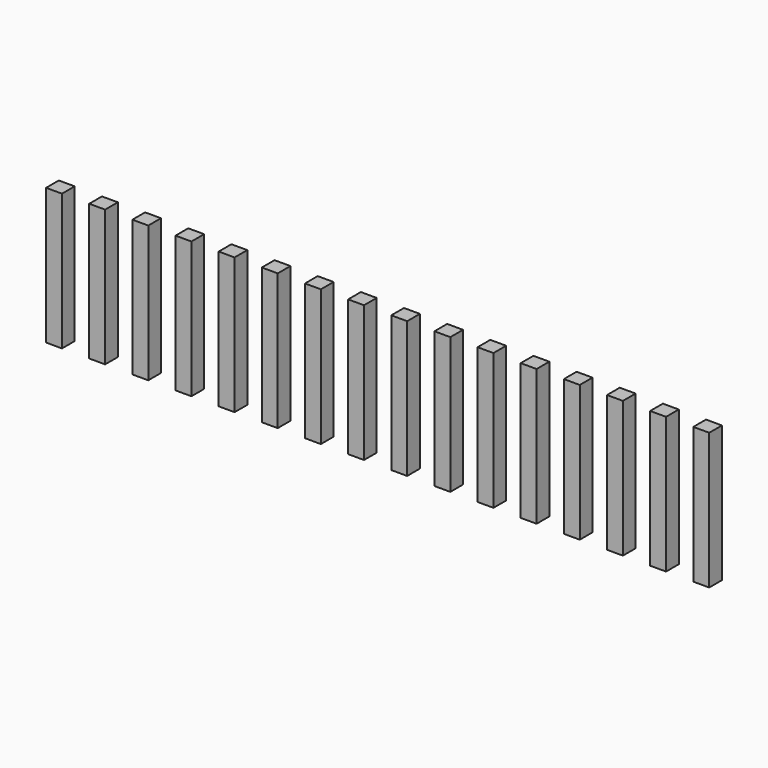
from build123d import *

# Parameters (mm, degrees)
F0_W     = 0.7
F0_H     = 0.7
F1_DEPTH = 6


with BuildPart() as f1:
    # F0 (on Top) → F1 (new body)
    with BuildSketch(Plane.XY):
        with Locations((0.35, -0.35)):
            Rectangle(F0_W, F0_H)
        with Locations((2.25, -0.35)):
            Rectangle(F0_W, F0_H)
        with Locations((4.15, -0.35)):
            Rectangle(F0_W, F0_H)
        with Locations((6.05, -0.35)):
            Rectangle(F0_W, F0_H)
        with Locations((7.95, -0.35)):
            Rectangle(F0_W, F0_H)
        with Locations((9.85, -0.35)):
            Rectangle(F0_W, F0_H)
        with Locations((11.75, -0.35)):
            Rectangle(F0_W, F0_H)
        with Locations((13.65, -0.35)):
            Rectangle(F0_W, F0_H)
        with Locations((15.55, -0.35)):
            Rectangle(F0_W, F0_H)
        with Locations((17.45, -0.35)):
            Rectangle(F0_W, F0_H)
        with Locations((19.35, -0.35)):
            Rectangle(F0_W, F0_H)
        with Locations((21.25, -0.35)):
            Rectangle(F0_W, F0_H)
        with Locations((23.15, -0.35)):
            Rectangle(F0_W, F0_H)
        with Locations((25.05, -0.35)):
            Rectangle(F0_W, F0_H)
        with Locations((26.95, -0.35)):
            Rectangle(F0_W, F0_H)
        with Locations((28.85, -0.35)):
            Rectangle(F0_W, F0_H)
    extrude(amount=F1_DEPTH)


solid = f1.part
